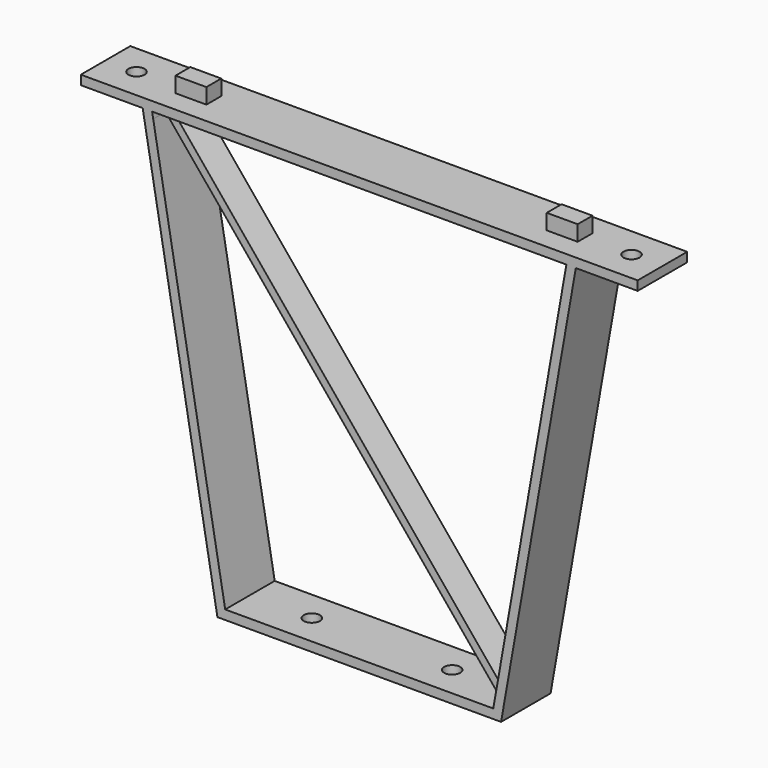
from build123d import *

# Parameters (mm, degrees)
F1_DEPTH = 10
F2_W     = 10
F2_H     = 6
F3_DEPTH = 5
F2_R     = 2.6
F4_DEPTH = 3
F5_R     = 2.6
F6_DEPTH = 3
F7_DEPTH = 5


with BuildPart() as f1:
    # F0 (on Front) → F1 (new body, symmetric)
    with BuildSketch(Plane.XZ):
        Polygon((90, 0), (-90, 0), (-90, -3), (-70, -3), (-45.843204, -140), (45.843204, -140), (70, -3), (90, -3), align=None)
        Polygon((-66.601066, -5), (-66.95372, -3), (-64.95372, -3), (66.95372, -3), (43.678559, -135), (43.325905, -137), (42.031213, -137), (-43.325905, -137), align=None, mode=Mode.SUBTRACT)
    extrude(amount=F1_DEPTH, both=True)

    # F2 (on face) → F3 (join)
    with BuildSketch(Plane.XY):
        with Locations((-60, 0)):
            Rectangle(F2_W, F2_H)
        with Locations((60, 0)):
            Rectangle(F2_W, F2_H)
    extrude(amount=F3_DEPTH)

    # F2 (on face) → F4 (cut, through all)
    with BuildSketch(Plane.XY):
        with Locations((-80, 0)):
            Circle(F2_R)
        with Locations((80, 0)):
            Circle(F2_R)
    extrude(amount=-F4_DEPTH, mode=Mode.SUBTRACT)

    # F5 (on face) → F6 (cut, through all)
    with BuildSketch(Plane.XY.offset(-137)):
        with Locations((-23.325905, 0)):
            Circle(F5_R)
        with Locations((22.031213, 0)):
            Circle(F5_R)
    extrude(amount=-F6_DEPTH, mode=Mode.SUBTRACT)

    # F0 (on Front) → F7 (join, symmetric)
    with BuildSketch(Plane.XZ):
        Polygon((-64.95372, -3), (-66.95372, -3), (-66.601066, -5), (42.031213, -137), (43.325905, -137), (43.678559, -135), align=None)
    extrude(amount=F7_DEPTH, both=True)


solid = f1.part
